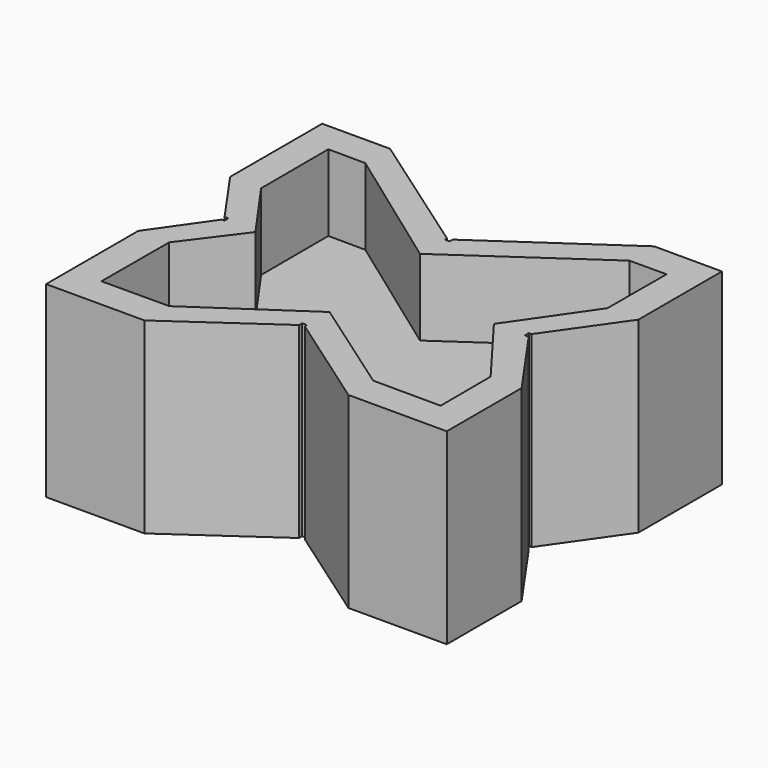
from build123d import *

# Parameters (mm, degrees)
F1_DEPTH = 43.815
F4_DEPTH = 36.0426
F7_DEPTH = 36.0426


with BuildPart() as f1:
    # F0 (on Top) → F1 (new body, symmetric)
    with BuildSketch(Plane.XY):
        Polygon((1.111168, 37.515668), (-59.248378, 79.779877), (-90.998378, 79.779877), (-90.998378, 26.008077), (-72.787326, 0), (-71.009326, 0), (-71.009326, -2.286), (-72.279326, -2.286), (-90.490378, -28.294077), (-90.490378, -82.116677), (-44.516378, -82.116677), (1.778, -49.701005), (1.778, -47.923005), (4.064, -47.923005), (4.064, -49.193005), (50.358378, -81.608677), (96.332378, -81.608677), (96.332378, -37.895277), (73.022231, -4.604938), (71.244231, -4.604938), (71.244231, -2.318938), (72.514231, -2.318938), (95.824378, 30.971401), (95.824378, 79.739401), (64.109252, 79.779877), (3.397168, 38.023668), (3.397168, 36.245668), (1.111168, 36.245668), align=None)
    extrude(amount=F1_DEPTH, both=True)

    # F3 (on offset) → F4 (cut)
    with BuildSketch(Plane.XY.offset(44.196)):
        Polygon((81.455968, 65.370991), (64.109252, 65.301877), (1.111168, 21.767668), (-59.248378, 65.301877), (-76.629968, 65.411468), (-76.520378, 26.008077), (-56.531326, -2.286), (-76.012378, -28.294077), (-76.121968, -67.748268), (-44.516378, -67.638677), (4.064, -34.715005), (50.358378, -67.130677), (81.963968, -67.240268), (81.854378, -37.895277), (56.766231, -4.604938), (81.346378, 30.971401), align=None)
    extrude(amount=-F4_DEPTH, mode=Mode.SUBTRACT)

    # F6 (on offset) → F7 (cut)
    with BuildSketch(Plane.XY.offset(-44.196)):
        Polygon((-76.012378, -28.294077), (-76.121968, -67.748268), (-44.516378, -67.638677), (4.064, -33.445005), (50.358378, -67.130677), (81.963968, -67.240268), (81.854378, -37.895277), (56.766231, -4.604938), (81.346378, 30.971401), (81.455968, 65.370991), (64.109252, 65.301877), (1.111168, 21.767668), (-59.248378, 65.301877), (-76.629968, 65.411468), (-76.520378, 26.008077), (-56.531326, 0), align=None)
    extrude(amount=F7_DEPTH, mode=Mode.SUBTRACT)


solid = f1.part
